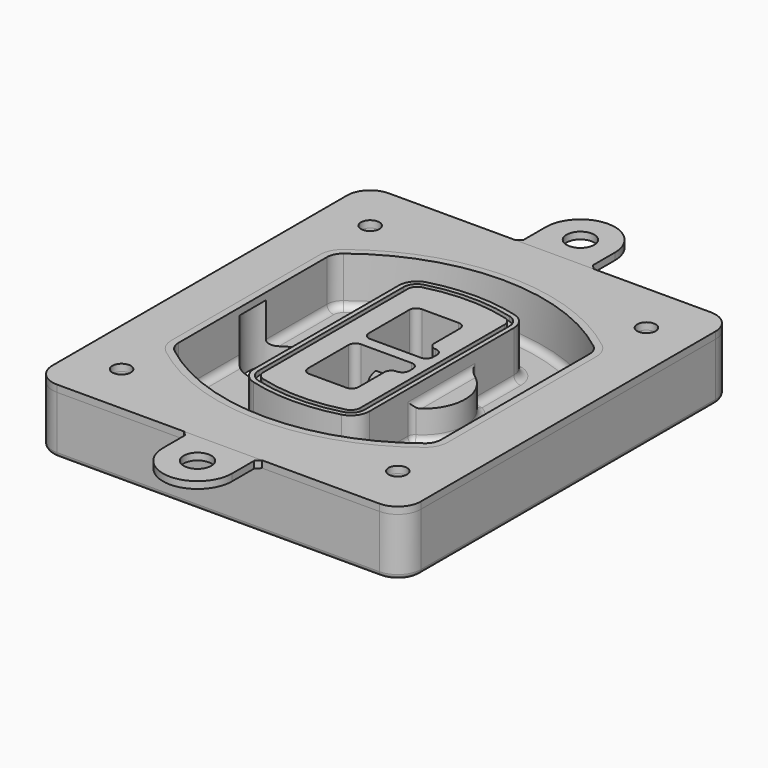
from build123d import *

# Parameters (mm, degrees)
F0_R      = 4
F1_DEPTH  = 25
F2_DEPTH  = 3
F3_DEPTH  = 18
F5_DEPTH  = 21
F6_DEPTH  = 2
F8_DEPTH  = 20
F9_DEPTH  = 16
F10_DEPTH = 25
F7_R      = 6
F7_R_2    = 4
F11_DEPTH = 6
F13_DEPTH = 9
F14_R     = 3
F15_R     = 2
F17_R     = 6
F18_DEPTH = 3
F16_R     = 4


with BuildPart() as f1:
    # F0 (on Top) → F1 (new body)
    with BuildSketch(Plane.XY):
        with BuildLine():
            ThreePointArc((-80, -80), (-77.0710678119, -87.0710678119), (-70, -90))
            Line((-70, -90), (70, -90))
            ThreePointArc((70, -90), (77.0710678119, -87.0710678119), (80, -80))
            Line((80, -80), (80, 80))
            ThreePointArc((80, 80), (77.0710678119, 87.0710678119), (70, 90))
            Line((70, 90), (-70, 90))
            ThreePointArc((-70, 90), (-77.0710678119, 87.0710678119), (-80, 80))
            Line((-80, 80), (-80, -80))
        make_face()
        with Locations((-60, -67.5)):
            Circle(F0_R, mode=Mode.SUBTRACT)
        with Locations((60, -67.5)):
            Circle(F0_R, mode=Mode.SUBTRACT)
        with Locations((-60, 67.5)):
            Circle(F0_R, mode=Mode.SUBTRACT)
        with BuildLine():
            ThreePointArc((-64, 40.2934422872), (-62.5820384798, 46.4328484224), (-58.6153846154, 51.3286200352))
            ThreePointArc((-58.6153846154, 51.3286200352), (0, 71.5), (58.6153846154, 51.3286200352))
            ThreePointArc((58.6153846154, 51.3286200352), (62.5820384798, 46.4328484224), (64, 40.2934422872))
            Line((64, 40.2934422872), (64, -40.2934422872))
            ThreePointArc((64, -40.2934422872), (62.5820384798, -46.4328484224), (58.6153846154, -51.3286200352))
            ThreePointArc((58.6153846154, -51.3286200352), (0, -71.5), (-58.6153846154, -51.3286200352))
            ThreePointArc((-58.6153846154, -51.3286200352), (-62.5820384798, -46.4328484224), (-64, -40.2934422872))
            Line((-64, -40.2934422872), (-64, 40.2934422872))
        make_face(mode=Mode.SUBTRACT)
        with Locations((60, 67.5)):
            Circle(F0_R, mode=Mode.SUBTRACT)
        with BuildLine():
            ThreePointArc((58.6153846154, 51.3286200352), (0, 71.5), (-58.6153846154, 51.3286200352))
            ThreePointArc((-58.6153846154, 51.3286200352), (-62.5820384798, 46.4328484224), (-64, 40.2934422872))
            Line((-64, 40.2934422872), (-64, -40.2934422872))
            ThreePointArc((-64, -40.2934422872), (-62.5820384798, -46.4328484224), (-58.6153846154, -51.3286200352))
            ThreePointArc((-58.6153846154, -51.3286200352), (0, -71.5), (58.6153846154, -51.3286200352))
            ThreePointArc((58.6153846154, -51.3286200352), (62.5820384798, -46.4328484224), (64, -40.2934422872))
            Line((64, -40.2934422872), (64, 40.2934422872))
            ThreePointArc((64, 40.2934422872), (62.5820384798, 46.4328484224), (58.6153846154, 51.3286200352))
        make_face()
        with BuildLine():
            Line((-60, -40.2934422872), (-60, 40.2934422872))
            ThreePointArc((-60, 40.2934422872), (-58.9871703427, 44.6787323838), (-56.1538461538, 48.1757121072))
            ThreePointArc((-56.1538461538, 48.1757121072), (0, 67.5), (56.1538461538, 48.1757121072))
            ThreePointArc((56.1538461538, 48.1757121072), (58.9871703427, 44.6787323838), (60, 40.2934422872))
            Line((60, 40.2934422872), (60, -40.2934422872))
            ThreePointArc((60, -40.2934422872), (58.9871703427, -44.6787323838), (56.1538461538, -48.1757121072))
            ThreePointArc((56.1538461538, -48.1757121072), (0, -67.5), (-56.1538461538, -48.1757121072))
            ThreePointArc((-56.1538461538, -48.1757121072), (-58.9871703427, -44.6787323838), (-60, -40.2934422872))
        make_face(mode=Mode.SUBTRACT)
        with BuildLine():
            ThreePointArc((-56.1538461538, 48.1757121072), (-58.9871703427, 44.6787323838), (-60, 40.2934422872))
            Line((-60, 40.2934422872), (-60, -40.2934422872))
            ThreePointArc((-60, -40.2934422872), (-58.9871703427, -44.6787323838), (-56.1538461538, -48.1757121072))
            ThreePointArc((-56.1538461538, -48.1757121072), (0, -67.5), (56.1538461538, -48.1757121072))
            ThreePointArc((56.1538461538, -48.1757121072), (58.9871703427, -44.6787323838), (60, -40.2934422872))
            Line((60, -40.2934422872), (60, 40.2934422872))
            ThreePointArc((60, 40.2934422872), (58.9871703427, 44.6787323838), (56.1538461538, 48.1757121072))
            ThreePointArc((56.1538461538, 48.1757121072), (0, 67.5), (-56.1538461538, 48.1757121072))
        make_face()
        with BuildLine():
            ThreePointArc((54.3076923077, 45.8110311612), (56.2910192399, 43.3631453548), (57, 40.2934422872))
            Line((57, 40.2934422872), (57, -40.2934422872))
            ThreePointArc((57, -40.2934422872), (56.2910192399, -43.3631453548), (54.3076923077, -45.8110311612))
            ThreePointArc((54.3076923077, -45.8110311612), (0, -64.5), (-54.3076923077, -45.8110311612))
            ThreePointArc((-54.3076923077, -45.8110311612), (-56.2910192399, -43.3631453548), (-57, -40.2934422872))
            Line((-57, -40.2934422872), (-57, 40.2934422872))
            ThreePointArc((-57, 40.2934422872), (-56.2910192399, 43.3631453548), (-54.3076923077, 45.8110311612))
            ThreePointArc((-54.3076923077, 45.8110311612), (0, 64.5), (54.3076923077, 45.8110311612))
        make_face(mode=Mode.SUBTRACT)
        with BuildLine():
            Line((57, -40.2934422872), (57, 40.2934422872))
            ThreePointArc((57, 40.2934422872), (56.2910192399, 43.3631453548), (54.3076923077, 45.8110311612))
            ThreePointArc((54.3076923077, 45.8110311612), (0, 64.5), (-54.3076923077, 45.8110311612))
            ThreePointArc((-54.3076923077, 45.8110311612), (-56.2910192399, 43.3631453548), (-57, 40.2934422872))
            Line((-57, 40.2934422872), (-57, -40.2934422872))
            ThreePointArc((-57, -40.2934422872), (-56.2910192399, -43.3631453548), (-54.3076923077, -45.8110311612))
            ThreePointArc((-54.3076923077, -45.8110311612), (0, -64.5), (54.3076923077, -45.8110311612))
            ThreePointArc((54.3076923077, -45.8110311612), (56.2910192399, -43.3631453548), (57, -40.2934422872))
        make_face()
    extrude(amount=-F1_DEPTH)

    # F0 (on Top) → F2 (join)
    with BuildSketch(Plane.XY):
        with BuildLine():
            ThreePointArc((-56.1538461538, 48.1757121072), (-58.9871703427, 44.6787323838), (-60, 40.2934422872))
            Line((-60, 40.2934422872), (-60, -40.2934422872))
            ThreePointArc((-60, -40.2934422872), (-58.9871703427, -44.6787323838), (-56.1538461538, -48.1757121072))
            ThreePointArc((-56.1538461538, -48.1757121072), (0, -67.5), (56.1538461538, -48.1757121072))
            ThreePointArc((56.1538461538, -48.1757121072), (58.9871703427, -44.6787323838), (60, -40.2934422872))
            Line((60, -40.2934422872), (60, 40.2934422872))
            ThreePointArc((60, 40.2934422872), (58.9871703427, 44.6787323838), (56.1538461538, 48.1757121072))
            ThreePointArc((56.1538461538, 48.1757121072), (0, 67.5), (-56.1538461538, 48.1757121072))
        make_face()
        with BuildLine():
            ThreePointArc((54.3076923077, 45.8110311612), (56.2910192399, 43.3631453548), (57, 40.2934422872))
            Line((57, 40.2934422872), (57, -40.2934422872))
            ThreePointArc((57, -40.2934422872), (56.2910192399, -43.3631453548), (54.3076923077, -45.8110311612))
            ThreePointArc((54.3076923077, -45.8110311612), (0, -64.5), (-54.3076923077, -45.8110311612))
            ThreePointArc((-54.3076923077, -45.8110311612), (-56.2910192399, -43.3631453548), (-57, -40.2934422872))
            Line((-57, -40.2934422872), (-57, 40.2934422872))
            ThreePointArc((-57, 40.2934422872), (-56.2910192399, 43.3631453548), (-54.3076923077, 45.8110311612))
            ThreePointArc((-54.3076923077, 45.8110311612), (0, 64.5), (54.3076923077, 45.8110311612))
        make_face(mode=Mode.SUBTRACT)
    extrude(amount=F2_DEPTH)

    # F0 (on Top) → F3 (cut)
    with BuildSketch(Plane.XY):
        with BuildLine():
            Line((57, -40.2934422872), (57, 40.2934422872))
            ThreePointArc((57, 40.2934422872), (56.2910192399, 43.3631453548), (54.3076923077, 45.8110311612))
            ThreePointArc((54.3076923077, 45.8110311612), (0, 64.5), (-54.3076923077, 45.8110311612))
            ThreePointArc((-54.3076923077, 45.8110311612), (-56.2910192399, 43.3631453548), (-57, 40.2934422872))
            Line((-57, 40.2934422872), (-57, -40.2934422872))
            ThreePointArc((-57, -40.2934422872), (-56.2910192399, -43.3631453548), (-54.3076923077, -45.8110311612))
            ThreePointArc((-54.3076923077, -45.8110311612), (0, -64.5), (54.3076923077, -45.8110311612))
            ThreePointArc((54.3076923077, -45.8110311612), (56.2910192399, -43.3631453548), (57, -40.2934422872))
        make_face()
    extrude(amount=-F3_DEPTH, mode=Mode.SUBTRACT)

    # F4 (on face) → F5 (join, through all)
    with BuildSketch(Plane.XY.offset(3)):
        with BuildLine():
            ThreePointArc((-25, -39.2465276821), (-23.3511545998, -44.1109737193), (-19.0842911877, -46.9702398883))
            ThreePointArc((-19.0842911877, -46.9702398883), (0, -49.5), (19.0842911877, -46.9702398883))
            ThreePointArc((19.0842911877, -46.9702398883), (23.3511545998, -44.1109737193), (25, -39.2465276821))
            Line((25, -39.2465276821), (25, 39.2465276821))
            ThreePointArc((25, 39.2465276821), (23.3511545998, 44.1109737193), (19.0842911877, 46.9702398883))
            ThreePointArc((19.0842911877, 46.9702398883), (0, 49.5), (-19.0842911877, 46.9702398883))
            ThreePointArc((-19.0842911877, 46.9702398883), (-23.3511545998, 44.1109737193), (-25, 39.2465276821))
            Line((-25, 39.2465276821), (-25, -39.2465276821))
        make_face()
        with BuildLine():
            ThreePointArc((18.5632183908, 45.0393118368), (21.7633659499, 42.89486221), (23, 39.2465276821))
            Line((23, 39.2465276821), (23, -39.2465276821))
            ThreePointArc((23, -39.2465276821), (21.7633659499, -42.89486221), (18.5632183908, -45.0393118368))
            ThreePointArc((18.5632183908, -45.0393118368), (0, -47.5), (-18.5632183908, -45.0393118368))
            ThreePointArc((-18.5632183908, -45.0393118368), (-21.7633659499, -42.89486221), (-23, -39.2465276821))
            Line((-23, -39.2465276821), (-23, 39.2465276821))
            ThreePointArc((-23, 39.2465276821), (-21.7633659499, 42.89486221), (-18.5632183908, 45.0393118368))
            ThreePointArc((-18.5632183908, 45.0393118368), (0, 47.5), (18.5632183908, 45.0393118368))
        make_face(mode=Mode.SUBTRACT)
        with BuildLine():
            Line((23, -39.2465276821), (23, 39.2465276821))
            ThreePointArc((23, 39.2465276821), (21.7633659499, 42.89486221), (18.5632183908, 45.0393118368))
            ThreePointArc((18.5632183908, 45.0393118368), (0, 47.5), (-18.5632183908, 45.0393118368))
            ThreePointArc((-18.5632183908, 45.0393118368), (-21.7633659499, 42.89486221), (-23, 39.2465276821))
            Line((-23, 39.2465276821), (-23, -39.2465276821))
            ThreePointArc((-23, -39.2465276821), (-21.7633659499, -42.89486221), (-18.5632183908, -45.0393118368))
            ThreePointArc((-18.5632183908, -45.0393118368), (0, -47.5), (18.5632183908, -45.0393118368))
            ThreePointArc((18.5632183908, -45.0393118368), (21.7633659499, -42.89486221), (23, -39.2465276821))
        make_face()
        with BuildLine():
            ThreePointArc((18.0421455939, 43.1083837852), (20.1755772999, 41.6787507007), (21, 39.2465276821))
            Line((21, 39.2465276821), (21, -39.2465276821))
            ThreePointArc((21, -39.2465276821), (20.1755772999, -41.6787507007), (18.0421455939, -43.1083837852))
            ThreePointArc((18.0421455939, -43.1083837852), (0, -45.5), (-18.0421455939, -43.1083837852))
            ThreePointArc((-18.0421455939, -43.1083837852), (-20.1755772999, -41.6787507007), (-21, -39.2465276821))
            Line((-21, -39.2465276821), (-21, 39.2465276821))
            ThreePointArc((-21, 39.2465276821), (-20.1755772999, 41.6787507007), (-18.0421455939, 43.1083837852))
            ThreePointArc((-18.0421455939, 43.1083837852), (0, 45.5), (18.0421455939, 43.1083837852))
        make_face(mode=Mode.SUBTRACT)
        with BuildLine():
            Line((21, -39.2465276821), (21, 39.2465276821))
            ThreePointArc((21, 39.2465276821), (20.1755772999, 41.6787507007), (18.0421455939, 43.1083837852))
            ThreePointArc((18.0421455939, 43.1083837852), (0, 45.5), (-18.0421455939, 43.1083837852))
            ThreePointArc((-18.0421455939, 43.1083837852), (-20.1755772999, 41.6787507007), (-21, 39.2465276821))
            Line((-21, 39.2465276821), (-21, -39.2465276821))
            ThreePointArc((-21, -39.2465276821), (-20.1755772999, -41.6787507007), (-18.0421455939, -43.1083837852))
            ThreePointArc((-18.0421455939, -43.1083837852), (0, -45.5), (18.0421455939, -43.1083837852))
            ThreePointArc((18.0421455939, -43.1083837852), (20.1755772999, -41.6787507007), (21, -39.2465276821))
        make_face()
        with BuildLine():
            Line((-8, -2.5), (14, -2.5))
            ThreePointArc((14, -2.5), (16.1213203436, -3.3786796564), (17, -5.5))
            Line((17, -5.5), (17, -7.5))
            ThreePointArc((17, -7.5), (16.1213203436, -9.6213203436), (14, -10.5))
            ThreePointArc((14, -10.5), (11.8786796564, -11.3786796564), (11, -13.5))
            Line((11, -13.5), (11, -27.5))
            ThreePointArc((11, -27.5), (10.1213203436, -29.6213203436), (8, -30.5))
            Line((8, -30.5), (-8, -30.5))
            ThreePointArc((-8, -30.5), (-10.1213203436, -29.6213203436), (-11, -27.5))
            Line((-11, -27.5), (-11, -5.5))
            ThreePointArc((-11, -5.5), (-10.1213203436, -3.3786796564), (-8, -2.5))
        make_face(mode=Mode.SUBTRACT)
        with BuildLine():
            ThreePointArc((-8, 2.5), (-10.1213203436, 3.3786796564), (-11, 5.5))
            Line((-11, 5.5), (-11, 27.5))
            ThreePointArc((-11, 27.5), (-10.1213203436, 29.6213203436), (-8, 30.5))
            Line((-8, 30.5), (8, 30.5))
            ThreePointArc((8, 30.5), (10.1213203436, 29.6213203436), (11, 27.5))
            Line((11, 27.5), (11, 13.5))
            ThreePointArc((11, 13.5), (11.8786796564, 11.3786796564), (14, 10.5))
            ThreePointArc((14, 10.5), (16.1213203436, 9.6213203436), (17, 7.5))
            Line((17, 7.5), (17, 5.5))
            ThreePointArc((17, 5.5), (16.1213203436, 3.3786796564), (14, 2.5))
            Line((14, 2.5), (-8, 2.5))
        make_face(mode=Mode.SUBTRACT)
    extrude(amount=-F5_DEPTH)

    # F4 (on face) → F6 (cut)
    with BuildSketch(Plane.XY.offset(3)):
        with BuildLine():
            Line((23, -39.2465276821), (23, 39.2465276821))
            ThreePointArc((23, 39.2465276821), (21.7633659499, 42.89486221), (18.5632183908, 45.0393118368))
            ThreePointArc((18.5632183908, 45.0393118368), (0, 47.5), (-18.5632183908, 45.0393118368))
            ThreePointArc((-18.5632183908, 45.0393118368), (-21.7633659499, 42.89486221), (-23, 39.2465276821))
            Line((-23, 39.2465276821), (-23, -39.2465276821))
            ThreePointArc((-23, -39.2465276821), (-21.7633659499, -42.89486221), (-18.5632183908, -45.0393118368))
            ThreePointArc((-18.5632183908, -45.0393118368), (0, -47.5), (18.5632183908, -45.0393118368))
            ThreePointArc((18.5632183908, -45.0393118368), (21.7633659499, -42.89486221), (23, -39.2465276821))
        make_face()
        with BuildLine():
            ThreePointArc((18.0421455939, 43.1083837852), (20.1755772999, 41.6787507007), (21, 39.2465276821))
            Line((21, 39.2465276821), (21, -39.2465276821))
            ThreePointArc((21, -39.2465276821), (20.1755772999, -41.6787507007), (18.0421455939, -43.1083837852))
            ThreePointArc((18.0421455939, -43.1083837852), (0, -45.5), (-18.0421455939, -43.1083837852))
            ThreePointArc((-18.0421455939, -43.1083837852), (-20.1755772999, -41.6787507007), (-21, -39.2465276821))
            Line((-21, -39.2465276821), (-21, 39.2465276821))
            ThreePointArc((-21, 39.2465276821), (-20.1755772999, 41.6787507007), (-18.0421455939, 43.1083837852))
            ThreePointArc((-18.0421455939, 43.1083837852), (0, 45.5), (18.0421455939, 43.1083837852))
        make_face(mode=Mode.SUBTRACT)
    extrude(amount=-F6_DEPTH, mode=Mode.SUBTRACT)

    # F7 (on face) → F8 (join)
    with BuildSketch(Plane(origin=(0, 0, -25), x_dir=(1, 0, 0), z_dir=(0, 0, -1))):
        with BuildLine():
            ThreePointArc((3.28842436, 0), (16.7567035675, 13.4682792075), (30.224982775, 0))
            Line((30.224982775, 0), (35.224982775, 0))
            ThreePointArc((35.224982775, 0), (16.7567035675, 18.4682792075), (-1.71157564, 0))
            Line((-1.71157564, 0), (3.28842436, 0))
        make_face()
        with BuildLine():
            Line((3.28842436, 0), (30.224982775, 0))
            ThreePointArc((30.224982775, 0), (16.7567035675, 13.4682792075), (3.28842436, 0))
        make_face()
        with BuildLine():
            ThreePointArc((3.28842436, 0), (16.7567035675, -13.4682792075), (30.224982775, 0))
            Line((30.224982775, 0), (3.28842436, 0))
        make_face()
        with BuildLine():
            Line((35.224982775, 0), (30.224982775, 0))
            ThreePointArc((30.224982775, 0), (16.7567035675, -13.4682792075), (3.28842436, 0))
            Line((3.28842436, 0), (-1.71157564, 0))
            ThreePointArc((-1.71157564, 0), (16.7567035675, -18.4682792075), (35.224982775, 0))
        make_face()
    extrude(amount=-F8_DEPTH)

    # F7 (on face) → F9 (cut)
    with BuildSketch(Plane(origin=(0, 0, -25), x_dir=(1, 0, 0), z_dir=(0, 0, -1))):
        with BuildLine():
            Line((3.28842436, 0), (30.224982775, 0))
            ThreePointArc((30.224982775, 0), (16.7567035675, 13.4682792075), (3.28842436, 0))
        make_face()
        with BuildLine():
            ThreePointArc((3.28842436, 0), (16.7567035675, -13.4682792075), (30.224982775, 0))
            Line((30.224982775, 0), (3.28842436, 0))
        make_face()
    extrude(amount=-F9_DEPTH, mode=Mode.SUBTRACT)

    # F7 (on face) → F10 (cut)
    with BuildSketch(Plane(origin=(0, 0, -25), x_dir=(1, 0, 0), z_dir=(0, 0, -1))):
        with BuildLine():
            Line((-59.0318229325, 0), (-32.0952645175, 0))
            ThreePointArc((-32.0952645175, 0), (-45.563543725, 13.4682792075), (-59.0318229325, 0))
        make_face()
        with BuildLine():
            ThreePointArc((-59.0318229325, 0), (-45.563543725, -13.4682792075), (-32.0952645175, 0))
            Line((-32.0952645175, 0), (-59.0318229325, 0))
        make_face()
    extrude(amount=-F10_DEPTH, mode=Mode.SUBTRACT)

    # F7 (on face) → F11 (cut)
    with BuildSketch(Plane(origin=(0, 0, -25), x_dir=(1, 0, 0), z_dir=(0, 0, -1))):
        with Locations((60, -67.5)):
            Circle(F7_R)
        with Locations((60, -67.5)):
            Circle(F7_R_2, mode=Mode.SUBTRACT)
        with Locations((60, -67.5)):
            Circle(F7_R)
        with Locations((60, -67.5)):
            Circle(F7_R_2, mode=Mode.SUBTRACT)
        with Locations((-60, -67.5)):
            Circle(F7_R)
        with Locations((-60, -67.5)):
            Circle(F7_R_2, mode=Mode.SUBTRACT)
        with Locations((-60, -67.5)):
            Circle(F7_R)
        with Locations((-60, -67.5)):
            Circle(F7_R_2, mode=Mode.SUBTRACT)
        with Locations((-60, 67.5)):
            Circle(F7_R)
        with Locations((-60, 67.5)):
            Circle(F7_R_2, mode=Mode.SUBTRACT)
        with Locations((-60, 67.5)):
            Circle(F7_R)
        with Locations((-60, 67.5)):
            Circle(F7_R_2, mode=Mode.SUBTRACT)
        with Locations((60, 67.5)):
            Circle(F7_R)
        with Locations((60, 67.5)):
            Circle(F7_R_2, mode=Mode.SUBTRACT)
        with Locations((60, 67.5)):
            Circle(F7_R)
        with Locations((60, 67.5)):
            Circle(F7_R_2, mode=Mode.SUBTRACT)
    extrude(amount=-F11_DEPTH, mode=Mode.SUBTRACT)

    # F12 (on face) → F13 (cut, through all)
    with BuildSketch(Plane(origin=(0, 0, -9), x_dir=(1, 0, 0), z_dir=(0, 0, -1))):
        with BuildLine():
            Line((11, 13.5), (11, 17.5481537753))
            ThreePointArc((11, 17.5481537753), (2.5696536419, 11.8239143813), (-1.5415842455, 2.5))
            Line((-1.5415842455, 2.5), (3.5224848595, 2.5))
            ThreePointArc((3.5224848595, 2.5), (6.1857188154, 8.3455872281), (11.2536447004, 12.2927168648))
            ThreePointArc((11.2536447004, 12.2927168648), (11.0640958889, 12.8831798879), (11, 13.5))
        make_face()
        with BuildLine():
            ThreePointArc((11.2536447004, -12.2927168648), (6.1857188154, -8.3455872281), (3.5224848595, -2.5))
            Line((3.5224848595, -2.5), (-1.5415842455, -2.5))
            ThreePointArc((-1.5415842455, -2.5), (2.5696536419, -11.8239143813), (11, -17.5481537753))
            Line((11, -17.5481537753), (11, -13.5))
            ThreePointArc((11, -13.5), (11.0640958889, -12.8831798879), (11.2536447004, -12.2927168648))
        make_face()
        with BuildLine():
            ThreePointArc((11.2536447004, 12.2927168648), (6.1857188154, 8.3455872281), (3.5224848595, 2.5))
            Line((3.5224848595, 2.5), (14, 2.5))
            ThreePointArc((14, 2.5), (16.1213203436, 3.3786796564), (17, 5.5))
            Line((17, 5.5), (17, 7.5))
            ThreePointArc((17, 7.5), (16.1213203436, 9.6213203436), (14, 10.5))
            ThreePointArc((14, 10.5), (12.3601599782, 10.9878446101), (11.2536447004, 12.2927168648))
        make_face()
        with BuildLine():
            Line((14, -2.5), (3.5224848595, -2.5))
            ThreePointArc((3.5224848595, -2.5), (6.1857188154, -8.3455872281), (11.2536447004, -12.2927168648))
            ThreePointArc((11.2536447004, -12.2927168648), (12.3601599782, -10.9878446101), (14, -10.5))
            ThreePointArc((14, -10.5), (16.1213203436, -9.6213203436), (17, -7.5))
            Line((17, -7.5), (17, -5.5))
            ThreePointArc((17, -5.5), (16.1213203436, -3.3786796564), (14, -2.5))
        make_face()
    extrude(amount=F13_DEPTH, mode=Mode.SUBTRACT)

    # F14
    f14_edges = [f1.edges().sort_by_distance(p)[0] for p in [
        (-57, -23.703476, -18),
        (-57, 23.703476, -18),
        (25, 0, -5),
        (25, 16.526506, -11.5),
        (25, -16.526506, -11.5),
        (25, -27.886517, -18),
        (35.224983, 0, -18),
    ]]
    fillet(f14_edges, radius=F14_R)

    # F15
    f15_edges = [f1.edges().sort_by_distance(p)[0] for p in [
        (0, -90, -25),
    ]]
    fillet(f15_edges, radius=F15_R)


with BuildPart() as f18:
    # F17 (on face) → F18 (new body, through all)
    with BuildSketch(Plane.XY):
        with BuildLine():
            Line((-12.8453831822, 91.9415441006), (-14.7869272828, 90))
            Line((-14.7869272828, 90), (19.0961609185, 90))
            Line((19.0961609185, 90), (17.1546168178, 91.9415441006))
            Line((17.1546168178, 91.9415441006), (17.1546168178, 103.9415441006))
            ThreePointArc((17.1546168178, 103.9415441006), (2.1546168178, 118.9415441006), (-12.8453831822, 103.9415441006))
            Line((-12.8453831822, 103.9415441006), (-12.8453831822, 91.9415441006))
        make_face()
        with Locations((2.1546168178, 103.9415441006)):
            Circle(F17_R, mode=Mode.SUBTRACT)
    extrude(amount=F18_DEPTH)


with BuildPart() as f18b:
    # F17 (on face) → F18, piece 2 (new body, through all)
    with BuildSketch(Plane.XY):
        with BuildLine():
            Line((19.0961609185, -90), (-14.7869272828, -90))
            Line((-14.7869272828, -90), (-12.8453831822, -91.9415441006))
            Line((-12.8453831822, -91.9415441006), (-12.8453831822, -103.9415441006))
            ThreePointArc((-12.8453831822, -103.9415441006), (2.1546168178, -118.9415441006), (17.1546168178, -103.9415441006))
            Line((17.1546168178, -103.9415441006), (17.1546168178, -91.9415441006))
            Line((17.1546168178, -91.9415441006), (19.0961609185, -90))
        make_face()
        with Locations((2.1546168178, -103.9415441006)):
            Circle(F17_R, mode=Mode.SUBTRACT)
    extrude(amount=F18_DEPTH)


with BuildPart() as f18c:
    # F16 (on face) → F18, piece 3 (new body, through all)
    with BuildSketch(Plane.XY):
        with BuildLine():
            Line((-80, 80), (-80, -80))
            ThreePointArc((-80, -80), (-77.0710678119, -87.0710678119), (-70, -90))
            Line((-70, -90), (70, -90))
            ThreePointArc((70, -90), (77.0710678119, -87.0710678119), (80, -80))
            Line((80, -80), (80, 80))
            ThreePointArc((80, 80), (77.0710678119, 87.0710678119), (70, 90))
            Line((70, 90), (-70, 90))
            ThreePointArc((-70, 90), (-77.0710678119, 87.0710678119), (-80, 80))
        make_face()
        with Locations((-60, -67.5)):
            Circle(F16_R, mode=Mode.SUBTRACT)
        with Locations((60, -67.5)):
            Circle(F16_R, mode=Mode.SUBTRACT)
        with Locations((-60, 67.5)):
            Circle(F16_R, mode=Mode.SUBTRACT)
        with BuildLine():
            ThreePointArc((-60, 40.2934422872), (-58.9871703427, 44.6787323838), (-56.1538461538, 48.1757121072))
            ThreePointArc((-56.1538461538, 48.1757121072), (0, 67.5), (56.1538461538, 48.1757121072))
            ThreePointArc((56.1538461538, 48.1757121072), (58.9871703427, 44.6787323838), (60, 40.2934422872))
            Line((60, 40.2934422872), (60, -40.2934422872))
            ThreePointArc((60, -40.2934422872), (58.9871703427, -44.6787323838), (56.1538461538, -48.1757121072))
            ThreePointArc((56.1538461538, -48.1757121072), (0, -67.5), (-56.1538461538, -48.1757121072))
            ThreePointArc((-56.1538461538, -48.1757121072), (-58.9871703427, -44.6787323838), (-60, -40.2934422872))
            Line((-60, -40.2934422872), (-60, 40.2934422872))
        make_face(mode=Mode.SUBTRACT)
        with Locations((60, 67.5)):
            Circle(F16_R, mode=Mode.SUBTRACT)
    extrude(amount=F18_DEPTH)


solid = Compound([f1.part, f18.part, f18b.part, f18c.part])
